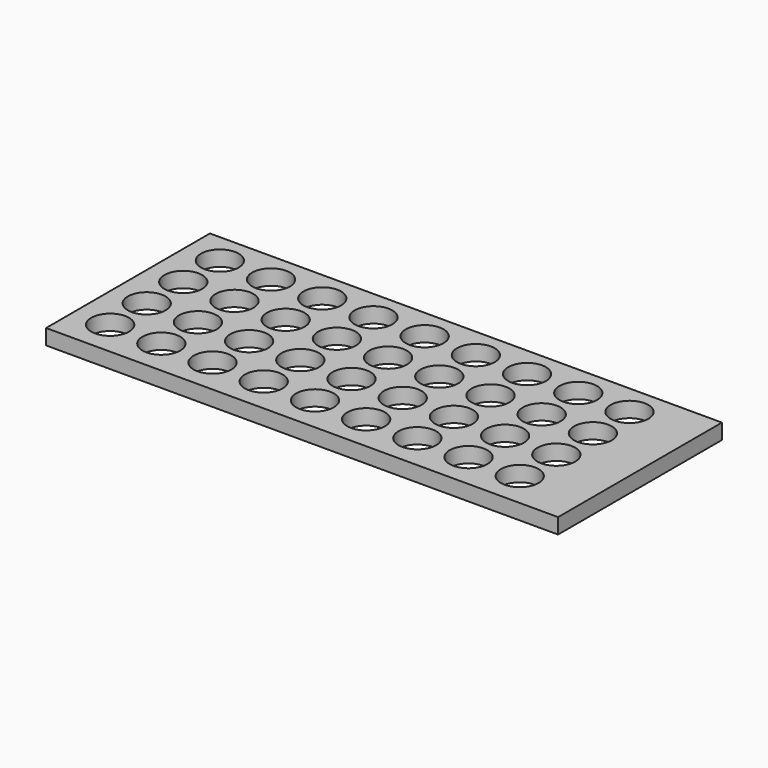
from build123d import *

# Parameters (mm, degrees)
F0_W     = 100
F0_H     = 40
F1_DEPTH = 3
F2_R     = 3.685803
F3_DEPTH = 25


with BuildPart() as f1:
    # F0 (on Top) → F1 (new body)
    with BuildSketch(Plane.XY):
        Rectangle(F0_W, F0_H)
    extrude(amount=F1_DEPTH)

    # F2 (on face) → F3 (cut)
    with BuildSketch(Plane.XY.offset(3)):
        with Locations((-43.042492, -13.054423)):
            Circle(F2_R)
        with Locations((-43.099029, -4.054601)):
            Circle(F2_R)
        with Locations((-43.155565, 4.945222)):
            Circle(F2_R)
        with Locations((-43.212102, 13.945044)):
            Circle(F2_R)
        with Locations((-33.155565, 4.945222)):
            Circle(F2_R)
        with Locations((-33.212102, 13.945044)):
            Circle(F2_R)
        with Locations((-33.099029, -4.054601)):
            Circle(F2_R)
        with Locations((-33.042492, -13.054423)):
            Circle(F2_R)
        with Locations((-23.042492, -13.054423)):
            Circle(F2_R)
        with Locations((-23.099029, -4.054601)):
            Circle(F2_R)
        with Locations((-23.212102, 13.945044)):
            Circle(F2_R)
        with Locations((-23.155565, 4.945222)):
            Circle(F2_R)
        with Locations((-13.099029, -4.054601)):
            Circle(F2_R)
        with Locations((-13.042492, -13.054423)):
            Circle(F2_R)
        with Locations((-3.042492, -13.054423)):
            Circle(F2_R)
        with Locations((-3.099029, -4.054601)):
            Circle(F2_R)
        with Locations((-13.155565, 4.945222)):
            Circle(F2_R)
        with Locations((-13.212102, 13.945044)):
            Circle(F2_R)
        with Locations((-3.212102, 13.945044)):
            Circle(F2_R)
        with Locations((-3.155565, 4.945222)):
            Circle(F2_R)
        with Locations((6.957508, -13.054423)):
            Circle(F2_R)
        with Locations((6.900971, -4.054601)):
            Circle(F2_R)
        with Locations((6.844435, 4.945222)):
            Circle(F2_R)
        with Locations((6.787898, 13.945044)):
            Circle(F2_R)
        with Locations((16.957508, -13.054423)):
            Circle(F2_R)
        with Locations((16.900971, -4.054601)):
            Circle(F2_R)
        with Locations((16.844435, 4.945222)):
            Circle(F2_R)
        with Locations((16.787898, 13.945044)):
            Circle(F2_R)
        with Locations((26.957508, -13.054423)):
            Circle(F2_R)
        with Locations((26.900971, -4.054601)):
            Circle(F2_R)
        with Locations((26.844435, 4.945222)):
            Circle(F2_R)
        with Locations((36.900971, -4.054601)):
            Circle(F2_R)
        with Locations((36.957508, -13.054423)):
            Circle(F2_R)
        with Locations((36.844435, 4.945222)):
            Circle(F2_R)
        with Locations((36.787898, 13.945044)):
            Circle(F2_R)
        with Locations((26.787898, 13.945044)):
            Circle(F2_R)
    extrude(amount=-F3_DEPTH, mode=Mode.SUBTRACT)


solid = f1.part
